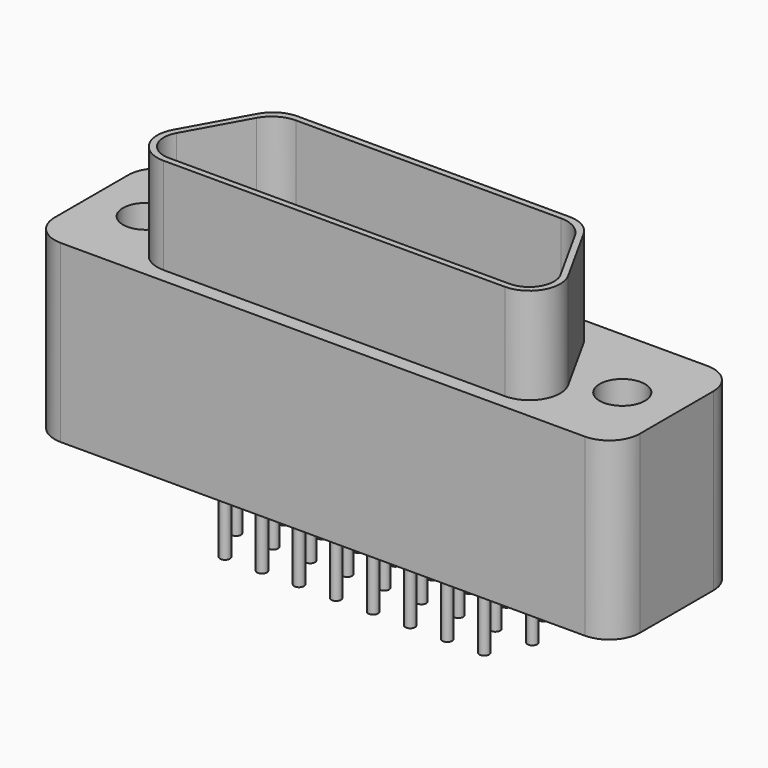
from build123d import *

# Parameters (mm, degrees)
F0_R     = 1.1684
F1_DEPTH = 4.5085
F3_DEPTH = 4.953
F5_DEPTH = 4.4069
F6_R     = 0.254
F7_DEPTH = 3.81


with BuildPart() as f1:
    # F0 (on Top) → F1 (new body, symmetric)
    with BuildSketch(Plane.XY):
        with BuildLine():
            Line((13.4747, 3.937), (-13.4747, 3.937))
            ThreePointArc((-13.4747, 3.937), (-14.588252, 3.475752), (-15.0495, 2.3622))
            Line((-15.0495, 2.3622), (-15.0495, -2.3622))
            ThreePointArc((-15.0495, -2.3622), (-14.588252, -3.475752), (-13.4747, -3.937))
            Line((-13.4747, -3.937), (13.4747, -3.937))
            ThreePointArc((13.4747, -3.937), (14.588252, -3.475752), (15.0495, -2.3622))
            Line((15.0495, -2.3622), (15.0495, 2.3622))
            ThreePointArc((15.0495, 2.3622), (14.588252, 3.475752), (13.4747, 3.937))
        make_face()
        with Locations((-12.2555, 0)):
            Circle(F0_R, mode=Mode.SUBTRACT)
        with Locations((12.2555, 0)):
            Circle(F0_R, mode=Mode.SUBTRACT)
    extrude(amount=F1_DEPTH, both=True)

    # F2 (on face) → F3 (join)
    with BuildSketch(Plane.XY.offset(4.5085)):
        with BuildLine():
            Line((-8.78192, -3.2004), (8.783378, -3.2004))
            ThreePointArc((8.783378, -3.2004), (10.140271, -2.424871), (10.160729, -0.862122))
            Line((10.160729, -0.862122), (8.372639, 2.363678))
            ThreePointArc((8.372639, 2.363678), (7.794559, 2.957094), (6.995288, 3.175))
            Line((6.995288, 3.175), (-6.99383, 3.175))
            ThreePointArc((-6.99383, 3.175), (-7.793101, 2.957094), (-8.371181, 2.363678))
            Line((-8.371181, 2.363678), (-10.159271, -0.862122))
            ThreePointArc((-10.159271, -0.862122), (-10.138814, -2.424871), (-8.78192, -3.2004))
        make_face()
    extrude(amount=F3_DEPTH)

    # F4 (on face) → F5 (cut)
    with BuildSketch(Plane.XY.offset(9.4615)):
        with BuildLine():
            Line((6.808266, 2.8575), (-6.806808, 2.8575))
            ThreePointArc((-6.806808, 2.8575), (-7.60608, 2.639594), (-8.184159, 2.046178))
            Line((-8.184159, 2.046178), (-9.871127, -0.997192))
            ThreePointArc((-9.871127, -0.997192), (-9.854629, -2.257474), (-8.76036, -2.8829))
            Line((-8.76036, -2.8829), (8.761817, -2.8829))
            ThreePointArc((8.761817, -2.8829), (9.856086, -2.257474), (9.872584, -0.997192))
            Line((9.872584, -0.997192), (8.185617, 2.046178))
            ThreePointArc((8.185617, 2.046178), (7.607537, 2.639594), (6.808266, 2.8575))
        make_face()
    extrude(amount=-F5_DEPTH, mode=Mode.SUBTRACT)

    # F6 (on face) → F7 (join)
    with BuildSketch(Plane(origin=(0, 0, -4.5085), x_dir=(1, 0, 0), z_dir=(0, 0, -1))):
        with Locations((-6.6548, 1.905)):
            Circle(F6_R)
        with Locations((-4.7498, 1.905)):
            Circle(F6_R)
        with Locations((-2.8448, 1.905)):
            Circle(F6_R)
        with Locations((-0.9398, 1.905)):
            Circle(F6_R)
        with Locations((0.9652, 1.905)):
            Circle(F6_R)
        with Locations((2.8702, 1.905)):
            Circle(F6_R)
        with Locations((4.7752, 1.905)):
            Circle(F6_R)
        with Locations((6.6802, 1.905)):
            Circle(F6_R)
        with Locations((-7.6073, 0)):
            Circle(F6_R)
        with Locations((-5.7023, 0)):
            Circle(F6_R)
        with Locations((-3.7973, 0)):
            Circle(F6_R)
        with Locations((-1.8923, 0)):
            Circle(F6_R)
        with Locations((0.0127, 0)):
            Circle(F6_R)
        with Locations((1.9177, 0)):
            Circle(F6_R)
        with Locations((-6.6548, -1.905)):
            Circle(F6_R)
        with Locations((-4.7498, -1.905)):
            Circle(F6_R)
        with Locations((-2.8448, -1.905)):
            Circle(F6_R)
        with Locations((-0.9398, -1.905)):
            Circle(F6_R)
        with Locations((0.9652, -1.905)):
            Circle(F6_R)
        with Locations((2.8702, -1.905)):
            Circle(F6_R)
        with Locations((3.8227, 0)):
            Circle(F6_R)
        with Locations((5.7277, 0)):
            Circle(F6_R)
        with Locations((7.6327, 0)):
            Circle(F6_R)
        with Locations((4.7752, -1.905)):
            Circle(F6_R)
        with Locations((6.6802, -1.905)):
            Circle(F6_R)
    extrude(amount=F7_DEPTH)


solid = f1.part
